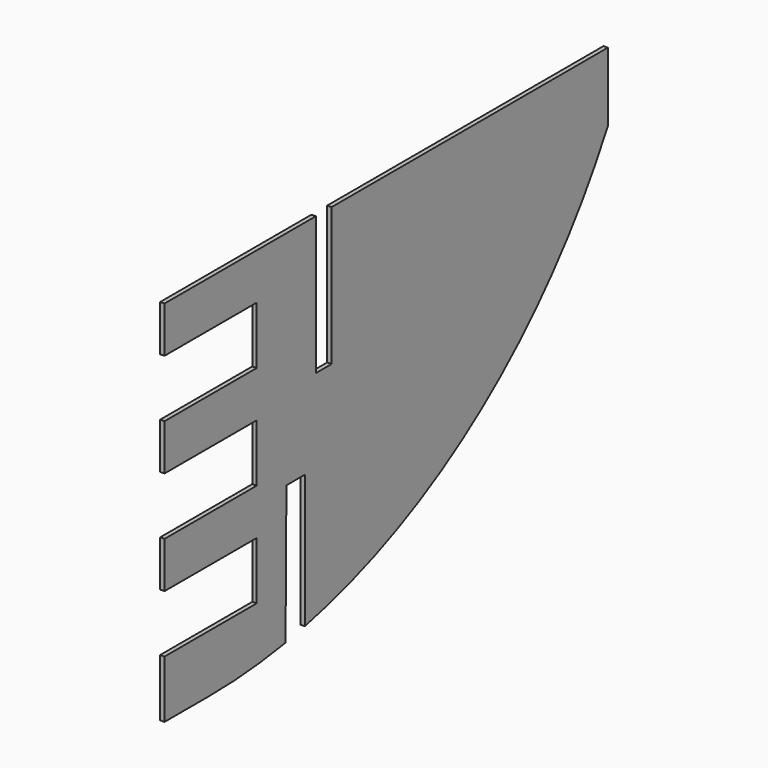
from build123d import *

# Parameters (mm, degrees)
F1_DEPTH = 4.7625
F2_ANGLE = 270


with BuildPart() as f1:
    # F0 (on Front) → F1 (new body)
    with BuildSketch(Plane.XZ):
        with BuildLine():
            Line((-230.3694504243, 0), (-611.3694504243, 0))
            Line((-611.3694504243, 0), (-611.3694504243, -76.2))
            ThreePointArc((-611.3694504243, -76.2), (-437.216196434, -280.1613571834), (-193.5208703627, -392.1532280958))
            Line((-193.5208703627, -392.1532280958), (-193.5208703627, -244.9399656624))
            Line((-193.5208703627, -244.9399656624), (-168.1208703627, -244.9399656624))
            Line((-168.1208703627, -244.9399656624), (-166.920896507, -397.3352413856))
            ThreePointArc((-166.920896507, -397.3352413856), (-114.1339631712, -404.1296791803), (-60.96, -406.4))
            Line((-60.96, -406.4), (0, -406.4))
            Line((0, -406.4), (0, -342.9))
            Line((0, -342.9), (-127, -342.9))
            Line((-127, -342.9), (-127, -279.4))
            Line((-127, -279.4), (0, -279.4))
            Line((0, -279.4), (0, -228.6))
            Line((0, -228.6), (-127, -228.6))
            Line((-127, -228.6), (-127, -165.1))
            Line((-127, -165.1), (0, -165.1))
            Line((0, -165.1), (0, -114.3))
            Line((0, -114.3), (-127, -114.3))
            Line((-127, -114.3), (-127, -50.8))
            Line((-127, -50.8), (0, -50.8))
            Line((0, -50.8), (0, 0))
            Line((0, 0), (-208.5918039083, 0))
            Line((-208.5918039083, 0), (-208.5918039083, -152.4))
            Line((-208.5918039083, -152.4), (-230.3694504243, -152.4))
            Line((-230.3694504243, -152.4), (-230.3694504243, 0))
        make_face()
    extrude(amount=F1_DEPTH)


with BuildPart() as f1_1:
    # F2: moved
    add(f1.part.rotate(Axis((0, 0, -139.7), (0, 0, 1)), F2_ANGLE))


solid = f1_1.part
